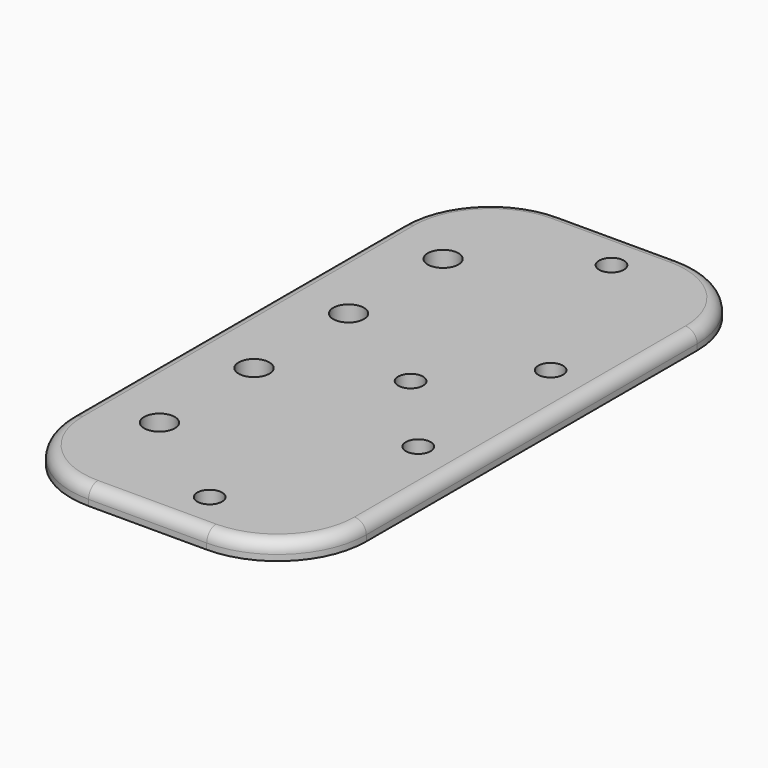
from build123d import *

# Parameters (mm, degrees)
F0_W     = 50
F0_H     = 100
F0_R     = 2.6
F0_R_2   = 2.1
F1_DEPTH = 3
F2_R     = 15
F3_R     = 2


with BuildPart() as f1:
    # F0 (on Top) → F1 (new body)
    with BuildSketch(Plane.XY):
        with Locations((-4.5, 0)):
            Rectangle(F0_W, F0_H)
        with Locations((-18.5, -30)):
            Circle(F0_R, mode=Mode.SUBTRACT)
        with Locations((-18.5, -10)):
            Circle(F0_R, mode=Mode.SUBTRACT)
        with Locations((0, -42.5)):
            Circle(F0_R_2, mode=Mode.SUBTRACT)
        with Locations((12.5, -14)):
            Circle(F0_R_2, mode=Mode.SUBTRACT)
        with Locations((-18.5, 10)):
            Circle(F0_R, mode=Mode.SUBTRACT)
        with Locations((-18.5, 30)):
            Circle(F0_R, mode=Mode.SUBTRACT)
        Circle(F0_R_2, mode=Mode.SUBTRACT)
        with Locations((12.5, 14)):
            Circle(F0_R_2, mode=Mode.SUBTRACT)
        with Locations((0, 42.5)):
            Circle(F0_R_2, mode=Mode.SUBTRACT)
    extrude(amount=F1_DEPTH)

    # F2
    f2_edges = [f1.edges().sort_by_distance(p)[0] for p in [
        (-29.5, -50, 1.5),
        (20.5, -50, 1.5),
        (20.5, 50, 1.5),
        (-29.5, 50, 1.5),
    ]]
    fillet(f2_edges, radius=F2_R)

    # F3
    f3_edges = [f1.edges().sort_by_distance(p)[0] for p in [
        (-4.5, 50, 3),
    ]]
    fillet(f3_edges, radius=F3_R)


solid = f1.part
